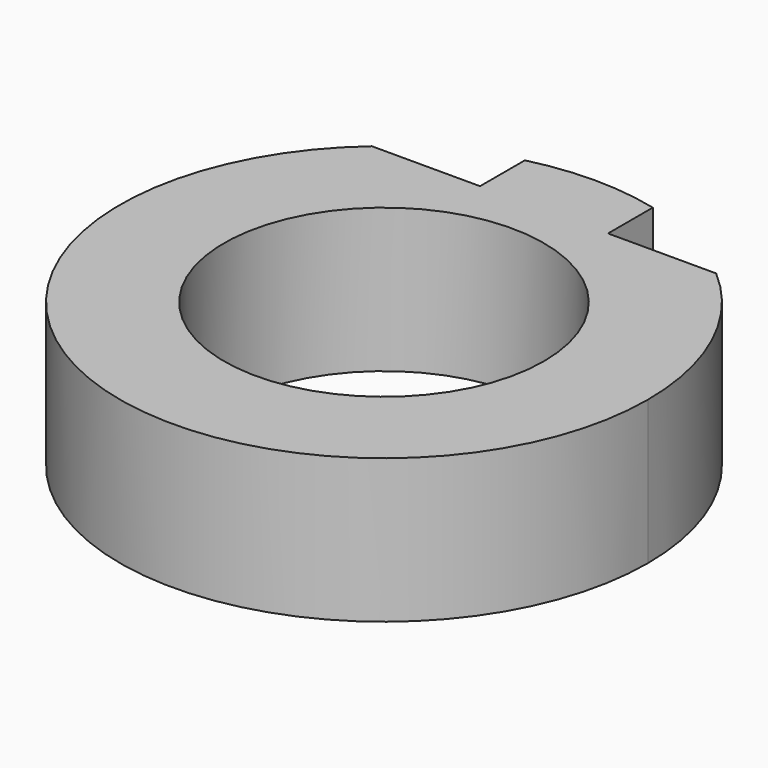
from build123d import *

# Parameters (mm, degrees)
F0_R     = 10
F1_DEPTH = 9


with BuildPart() as f1:
    # F0 (on Top) → F1 (new body)
    with BuildSketch(Plane.XY):
        with BuildLine():
            ThreePointArc((-10.761258, 12.507811), (-6.880743, -14.996846), (16.5, 0))
            ThreePointArc((16.5, 0), (14.996846, 6.880743), (10.761258, 12.507811))
            Line((10.761258, 12.507811), (4, 12.507811))
            Line((4, 12.507811), (4, 16.007811))
            ThreePointArc((4, 16.007811), (0, 16.5), (-4, 16.007811))
            Line((-4, 16.007811), (-4, 12.507811))
            Line((-4, 12.507811), (-10.761258, 12.507811))
        make_face()
        Circle(F0_R, mode=Mode.SUBTRACT)
    extrude(amount=F1_DEPTH)


solid = f1.part
